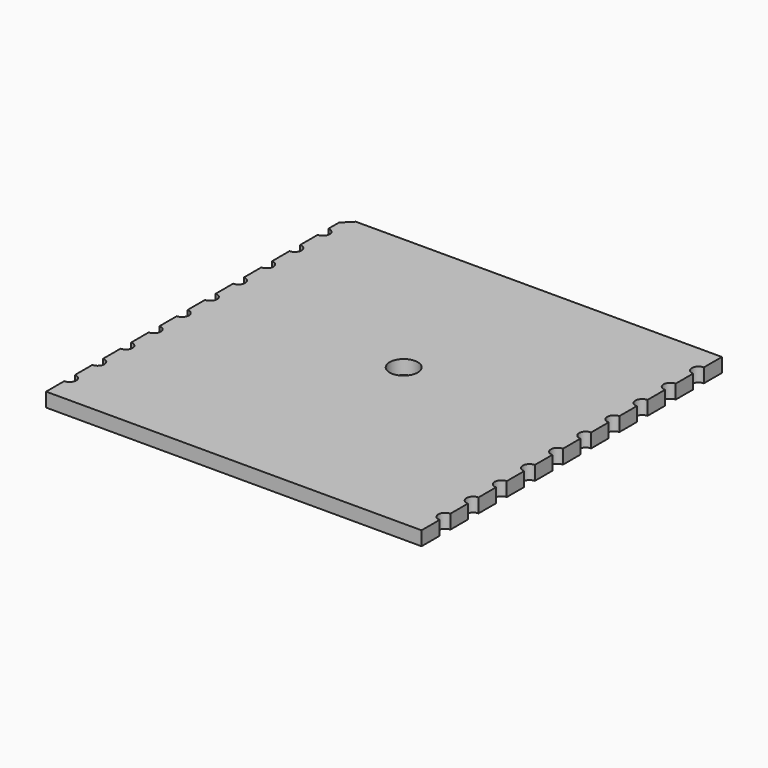
from build123d import *

# Parameters (mm, degrees)
PAD_DEPTH                        = 0.6
SKETCH001_R                      = 0.6
POCKET_DEPTH                     = 0.601
SKETCH002_R                      = 0.2848
POCKET001_DEPTH                  = 45.871741
SKETCH002_LINEARPATTERN_2_R      = 0.2848
POCKET001_LINEARPATTERN_2_DEPTH  = 45.871741
SKETCH002_LINEARPATTERN_3_R      = 0.2848
POCKET001_LINEARPATTERN_3_DEPTH  = 45.871741
SKETCH002_LINEARPATTERN_4_R      = 0.2848
POCKET001_LINEARPATTERN_4_DEPTH  = 45.871741
SKETCH002_LINEARPATTERN_5_R      = 0.2848
POCKET001_LINEARPATTERN_5_DEPTH  = 45.871741
SKETCH002_LINEARPATTERN_6_R      = 0.2848
POCKET001_LINEARPATTERN_6_DEPTH  = 45.871741
SKETCH002_LINEARPATTERN_7_R      = 0.2848
POCKET001_LINEARPATTERN_7_DEPTH  = 45.871741
SKETCH002_LINEARPATTERN_8_R      = 0.2848
POCKET001_LINEARPATTERN_8_DEPTH  = 45.871741
SKETCH002_LINEARPATTERN_9_R      = 0.2848
POCKET001_LINEARPATTERN_9_DEPTH  = 45.871741
SKETCH002_LINEARPATTERN_10_R     = 0.2848
POCKET001_LINEARPATTERN_10_DEPTH = 45.871741


with BuildPart() as part:
    # Sketch → Pad (new body)
    with BuildSketch(Plane.XY):
        Polygon((-8, -8), (8, -8), (8, 8), (-7.6, 8), (-8, 7.6), align=None)
    extrude(amount=PAD_DEPTH)

    # Sketch001 → Pocket (cut, through all)
    with BuildSketch(Plane.XY):
        with Locations((0.2, 0.8)):
            Circle(SKETCH001_R)
    extrude(amount=POCKET_DEPTH, mode=Mode.SUBTRACT)

    # Sketch002 → Pocket001 (cut, through all)
    with BuildSketch(Plane.XY):
        with Locations((-8, 6.75)):
            Circle(SKETCH002_R)
    pocket001 = extrude(amount=POCKET001_DEPTH, mode=Mode.SUBTRACT)

    # Sketch002 LinearPattern 2 → Pocket001 LinearPattern 2 (cut, through all)
    with BuildSketch(Plane(origin=(0, -1.5, 0), x_dir=(1, 0, 0), z_dir=(0, 0, 1))):
        with Locations((-8, 6.75)):
            Circle(SKETCH002_LINEARPATTERN_2_R)
    pocket001_linearpattern_2 = extrude(amount=POCKET001_LINEARPATTERN_2_DEPTH, mode=Mode.SUBTRACT)

    # Sketch002 LinearPattern 3 → Pocket001 LinearPattern 3 (cut, through all)
    with BuildSketch(Plane(origin=(0, -3, 0), x_dir=(1, 0, 0), z_dir=(0, 0, 1))):
        with Locations((-8, 6.75)):
            Circle(SKETCH002_LINEARPATTERN_3_R)
    pocket001_linearpattern_3 = extrude(amount=POCKET001_LINEARPATTERN_3_DEPTH, mode=Mode.SUBTRACT)

    # Sketch002 LinearPattern 4 → Pocket001 LinearPattern 4 (cut, through all)
    with BuildSketch(Plane(origin=(0, -4.5, 0), x_dir=(1, 0, 0), z_dir=(0, 0, 1))):
        with Locations((-8, 6.75)):
            Circle(SKETCH002_LINEARPATTERN_4_R)
    pocket001_linearpattern_4 = extrude(amount=POCKET001_LINEARPATTERN_4_DEPTH, mode=Mode.SUBTRACT)

    # Sketch002 LinearPattern 5 → Pocket001 LinearPattern 5 (cut, through all)
    with BuildSketch(Plane(origin=(0, -6, 0), x_dir=(1, 0, 0), z_dir=(0, 0, 1))):
        with Locations((-8, 6.75)):
            Circle(SKETCH002_LINEARPATTERN_5_R)
    pocket001_linearpattern_5 = extrude(amount=POCKET001_LINEARPATTERN_5_DEPTH, mode=Mode.SUBTRACT)

    # Sketch002 LinearPattern 6 → Pocket001 LinearPattern 6 (cut, through all)
    with BuildSketch(Plane(origin=(0, -7.5, 0), x_dir=(1, 0, 0), z_dir=(0, 0, 1))):
        with Locations((-8, 6.75)):
            Circle(SKETCH002_LINEARPATTERN_6_R)
    pocket001_linearpattern_6 = extrude(amount=POCKET001_LINEARPATTERN_6_DEPTH, mode=Mode.SUBTRACT)

    # Sketch002 LinearPattern 7 → Pocket001 LinearPattern 7 (cut, through all)
    with BuildSketch(Plane(origin=(0, -9, 0), x_dir=(1, 0, 0), z_dir=(0, 0, 1))):
        with Locations((-8, 6.75)):
            Circle(SKETCH002_LINEARPATTERN_7_R)
    pocket001_linearpattern_7 = extrude(amount=POCKET001_LINEARPATTERN_7_DEPTH, mode=Mode.SUBTRACT)

    # Sketch002 LinearPattern 8 → Pocket001 LinearPattern 8 (cut, through all)
    with BuildSketch(Plane(origin=(0, -10.5, 0), x_dir=(1, 0, 0), z_dir=(0, 0, 1))):
        with Locations((-8, 6.75)):
            Circle(SKETCH002_LINEARPATTERN_8_R)
    pocket001_linearpattern_8 = extrude(amount=POCKET001_LINEARPATTERN_8_DEPTH, mode=Mode.SUBTRACT)

    # Sketch002 LinearPattern 9 → Pocket001 LinearPattern 9 (cut, through all)
    with BuildSketch(Plane(origin=(0, -12, 0), x_dir=(1, 0, 0), z_dir=(0, 0, 1))):
        with Locations((-8, 6.75)):
            Circle(SKETCH002_LINEARPATTERN_9_R)
    pocket001_linearpattern_9 = extrude(amount=POCKET001_LINEARPATTERN_9_DEPTH, mode=Mode.SUBTRACT)

    # Sketch002 LinearPattern 10 → Pocket001 LinearPattern 10 (cut, through all)
    with BuildSketch(Plane(origin=(0, -13.5, 0), x_dir=(1, 0, 0), z_dir=(0, 0, 1))):
        with Locations((-8, 6.75)):
            Circle(SKETCH002_LINEARPATTERN_10_R)
    pocket001_linearpattern_10 = extrude(amount=POCKET001_LINEARPATTERN_10_DEPTH, mode=Mode.SUBTRACT)

    # Mirrored: Pocket001, Pocket001 LinearPattern 2, Pocket001 LinearPattern 3, Pocket001 LinearPattern 4, Pocket001 LinearPattern 5, Pocket001 LinearPattern 6, Pocket001 LinearPattern 7, Pocket001 LinearPattern 8, Pocket001 LinearPattern 9, Pocket001 LinearPattern 10 across Sketch002 V_Axis
    add(pocket001.mirror(Plane(origin=(0, 0, 0), x_dir=(0, 0, 1), z_dir=(1, 0, 0))), mode=Mode.SUBTRACT)
    add(pocket001_linearpattern_2.mirror(Plane(origin=(0, 0, 0), x_dir=(0, 0, 1), z_dir=(1, 0, 0))), mode=Mode.SUBTRACT)
    add(pocket001_linearpattern_3.mirror(Plane(origin=(0, 0, 0), x_dir=(0, 0, 1), z_dir=(1, 0, 0))), mode=Mode.SUBTRACT)
    add(pocket001_linearpattern_4.mirror(Plane(origin=(0, 0, 0), x_dir=(0, 0, 1), z_dir=(1, 0, 0))), mode=Mode.SUBTRACT)
    add(pocket001_linearpattern_5.mirror(Plane(origin=(0, 0, 0), x_dir=(0, 0, 1), z_dir=(1, 0, 0))), mode=Mode.SUBTRACT)
    add(pocket001_linearpattern_6.mirror(Plane(origin=(0, 0, 0), x_dir=(0, 0, 1), z_dir=(1, 0, 0))), mode=Mode.SUBTRACT)
    add(pocket001_linearpattern_7.mirror(Plane(origin=(0, 0, 0), x_dir=(0, 0, 1), z_dir=(1, 0, 0))), mode=Mode.SUBTRACT)
    add(pocket001_linearpattern_8.mirror(Plane(origin=(0, 0, 0), x_dir=(0, 0, 1), z_dir=(1, 0, 0))), mode=Mode.SUBTRACT)
    add(pocket001_linearpattern_9.mirror(Plane(origin=(0, 0, 0), x_dir=(0, 0, 1), z_dir=(1, 0, 0))), mode=Mode.SUBTRACT)
    add(pocket001_linearpattern_10.mirror(Plane(origin=(0, 0, 0), x_dir=(0, 0, 1), z_dir=(1, 0, 0))), mode=Mode.SUBTRACT)


with BuildPart() as part_1:
    # Body placement: moved
    add(part.part.moved(Location((0, 0, 0.0348))))


solid = part_1.part
